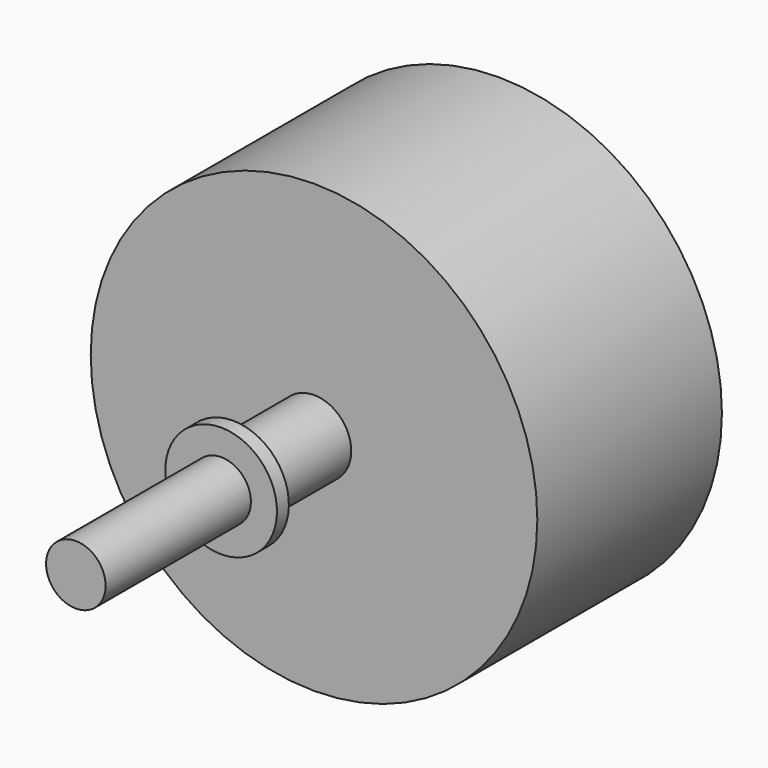
from build123d import *

# Parameters (mm, degrees)
F2_R     = 5
F3_DEPTH = 13.6
F4_W     = 2
F4_H     = 7.5


with BuildPart() as f1:
    # F0 (on Right) → F1 (revolve)
    with BuildSketch(Plane.YZ):
        Polygon((-40, 4), (-40, 0), (42.4, 0), (42.4, 5), (40.4, 5), (40.4, 8.25), (38.5, 8.25), (38.5, 17.25), (31, 30), (0, 30), (0, 4), align=None)
    revolve(axis=Axis((0, 1.2, 0), (0, 1, 0)))

    # F2 (on face) → F3 (join)
    with BuildSketch(Plane.XZ):
        Circle(F2_R)
    extrude(amount=F3_DEPTH)

    # F4 (on Right) → F5 (revolve)
    with BuildSketch(Plane.YZ):
        with Locations((-14.6, 3.75)):
            Rectangle(F4_W, F4_H)
    revolve(axis=Axis((0, -14.6, 0), (0, 1, 0)))


solid = f1.part
